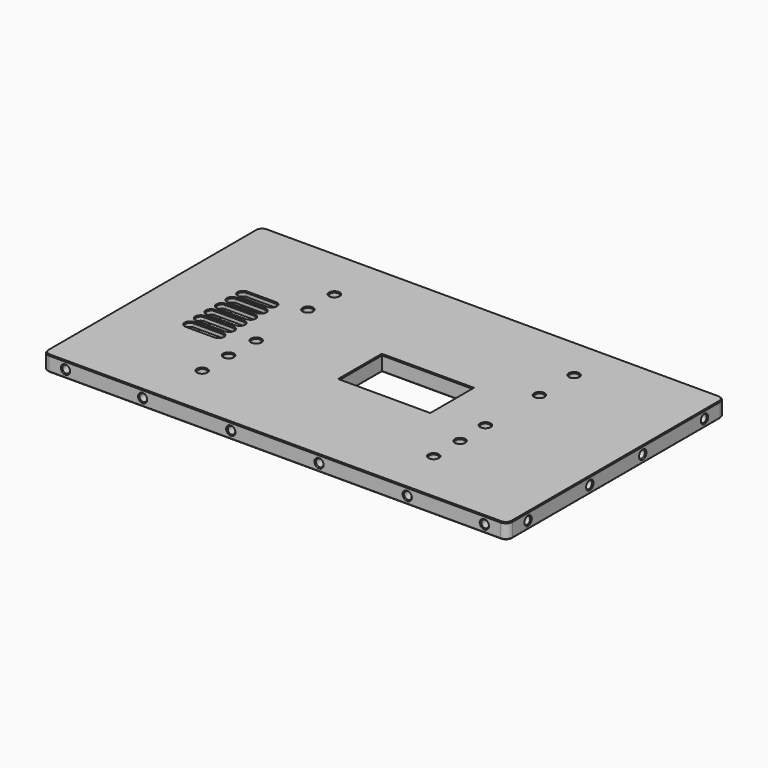
from build123d import *

# Parameters (mm, degrees)
SKETCH030_W        = 210.7
SKETCH030_H        = 123.7
SKETCH030_W_2      = 18
SKETCH030_H_2      = 35
PAD005_DEPTH       = 7
FILLET002_R        = 3
SKETCH031_W        = 50
SKETCH031_H        = 12
POCKET007_DEPTH    = 4
SKETCH032_W        = 41
SKETCH032_H        = 24
POCKET008_DEPTH    = 7.001
SKETCH033_R        = 1.7
POCKET009_DEPTH    = 10
SKETCH034_R        = 1.7
POCKET010_DEPTH    = 10
SKETCH036_R        = 1.7
POCKET011_DEPTH    = 10
SKETCH037_R        = 1.7
POCKET012_DEPTH    = 10
SKETCH038_R        = 2
POCKET013_DEPTH    = 7.001
SKETCH039_W        = 18
SKETCH039_H        = 35
PAD006_DEPTH       = 2
CHAMFER011012_SIZE = 0.4
SKETCH049_R        = 2
POCKET021_DEPTH    = 7.001
CHAMFER011021_SIZE = 0.4
SKETCH050_W        = 0.5
SKETCH050_H        = 90
SKETCH050_W_2      = 68.5
SKETCH050_H_2      = 0.5
POCKET022_DEPTH    = 5


with BuildPart() as part:
    # Sketch030 → Pad005 (new body)
    with BuildSketch(Plane.XY):
        Rectangle(SKETCH030_W, SKETCH030_H)
        with Locations((-71.5, 2.5)):
            Rectangle(SKETCH030_W_2, SKETCH030_H_2, mode=Mode.SUBTRACT)
    extrude(amount=PAD005_DEPTH)

    # Fillet002
    fillet002_edges = [part.edges().sort_by_distance(p)[0] for p in [
        (-105.35, 61.85, 3.5),
        (-105.35, -61.85, 3.5),
        (105.35, -61.85, 3.5),
        (105.35, 61.85, 3.5),
    ]]
    fillet(fillet002_edges, radius=FILLET002_R)

    # Sketch031 → Pocket007 (cut)
    with BuildSketch(Plane.XY):
        with Locations((-42.5, 52.5)):
            Rectangle(SKETCH031_W, SKETCH031_H)
    extrude(amount=POCKET007_DEPTH, mode=Mode.SUBTRACT)

    # Sketch032 → Pocket008 (cut, through all)
    with BuildSketch(Plane.XY):
        with Locations((10, 0)):
            Rectangle(SKETCH032_W, SKETCH032_H)
    extrude(amount=POCKET008_DEPTH, mode=Mode.SUBTRACT)

    # Sketch033 (on DatumPlane) → Pocket009 (cut)
    with BuildSketch(Plane.XZ.offset(-62)):
        with Locations((-95, 3.5)):
            Circle(SKETCH033_R)
        with Locations((-60, 3.5)):
            Circle(SKETCH033_R)
        with Locations((-20, 3.5)):
            Circle(SKETCH033_R)
        with Locations((20, 3.5)):
            Circle(SKETCH033_R)
        with Locations((60, 3.5)):
            Circle(SKETCH033_R)
        with Locations((95, 3.5)):
            Circle(SKETCH033_R)
    extrude(amount=POCKET009_DEPTH, mode=Mode.SUBTRACT)

    # Sketch034 (on DatumPlane) → Pocket010 (cut)
    with BuildSketch(Plane.YZ.offset(105.5)):
        with Locations((-50, 3.5)):
            Circle(SKETCH034_R)
        with Locations((-15, 3.5)):
            Circle(SKETCH034_R)
        with Locations((15, 3.5)):
            Circle(SKETCH034_R)
        with Locations((50, 3.5)):
            Circle(SKETCH034_R)
    extrude(amount=-POCKET010_DEPTH, mode=Mode.SUBTRACT)

    # Sketch036 (on DatumPlane) → Pocket011 (cut)
    with BuildSketch(Plane.XZ.offset(62)):
        with Locations((-95, 3.5)):
            Circle(SKETCH036_R)
        with Locations((-60, 3.5)):
            Circle(SKETCH036_R)
        with Locations((-20, 3.5)):
            Circle(SKETCH036_R)
        with Locations((20, 3.5)):
            Circle(SKETCH036_R)
        with Locations((60, 3.5)):
            Circle(SKETCH036_R)
        with Locations((95, 3.5)):
            Circle(SKETCH036_R)
    extrude(amount=-POCKET011_DEPTH, mode=Mode.SUBTRACT)

    # Sketch037 (on DatumPlane) → Pocket012 (cut)
    with BuildSketch(Plane.YZ.offset(-105.5)):
        with Locations((-50, 3.5)):
            Circle(SKETCH037_R)
        with Locations((-15, 3.5)):
            Circle(SKETCH037_R)
        with Locations((15, 3.5)):
            Circle(SKETCH037_R)
        with Locations((50, 3.5)):
            Circle(SKETCH037_R)
    extrude(amount=POCKET012_DEPTH, mode=Mode.SUBTRACT)

    # Sketch038 → Pocket013 (cut, through all)
    with BuildSketch(Plane.XY):
        with Locations((-52.5, 22.5)):
            Circle(SKETCH038_R)
        with Locations((-52.5, -22.5)):
            Circle(SKETCH038_R)
        with Locations((52.5, 22.5)):
            Circle(SKETCH038_R)
        with Locations((52.5, -22.5)):
            Circle(SKETCH038_R)
        with Locations((-52.5, 37.5)):
            Circle(SKETCH038_R)
        with Locations((-52.5, -37.5)):
            Circle(SKETCH038_R)
        with Locations((52.5, 42.13591)):
            Circle(SKETCH038_R)
        with Locations((52.5, -37.5)):
            Circle(SKETCH038_R)
    extrude(amount=POCKET013_DEPTH, mode=Mode.SUBTRACT)

    # Sketch039 (on Face5 of Pocket013) → Pad006 (join)
    with BuildSketch(Plane.XY.offset(7)):
        with Locations((-71.5, 2.5)):
            Rectangle(SKETCH039_W, SKETCH039_H)
        with BuildLine():
            ThreePointArc((-78, 19.5), (-80, 17.5), (-78, 15.5))
            Line((-78, 15.5), (-65, 15.5))
            ThreePointArc((-65, 15.5), (-63, 17.5), (-65, 19.5))
            Line((-78, 19.5), (-65, 19.5))
        make_face(mode=Mode.SUBTRACT)
        with BuildLine():
            ThreePointArc((-78, 13.5), (-80, 11.5), (-78, 9.5))
            Line((-78, 9.5), (-65, 9.5))
            ThreePointArc((-65, 9.5), (-63, 11.5), (-65, 13.5))
            Line((-78, 13.5), (-65, 13.5))
        make_face(mode=Mode.SUBTRACT)
        with BuildLine():
            ThreePointArc((-78, 7.5), (-80, 5.5), (-78, 3.5))
            Line((-78, 3.5), (-65, 3.5))
            ThreePointArc((-65, 3.5), (-63, 5.5), (-65, 7.5))
            Line((-78, 7.5), (-65, 7.5))
        make_face(mode=Mode.SUBTRACT)
        with BuildLine():
            ThreePointArc((-78, 1.5), (-80, -0.5), (-78, -2.5))
            Line((-78, -2.5), (-65, -2.5))
            ThreePointArc((-65, -2.5), (-63, -0.5), (-65, 1.5))
            Line((-78, 1.5), (-65, 1.5))
        make_face(mode=Mode.SUBTRACT)
        with BuildLine():
            ThreePointArc((-78, -4.5), (-80, -6.5), (-78, -8.5))
            Line((-78, -8.5), (-65, -8.5))
            ThreePointArc((-65, -8.5), (-63, -6.5), (-65, -4.5))
            Line((-78, -4.5), (-65, -4.5))
        make_face(mode=Mode.SUBTRACT)
        with BuildLine():
            ThreePointArc((-78, -10.5), (-80, -12.5), (-78, -14.5))
            Line((-78, -14.5), (-65, -14.5))
            ThreePointArc((-65, -14.5), (-63, -12.5), (-65, -10.5))
            Line((-78, -10.5), (-65, -10.5))
        make_face(mode=Mode.SUBTRACT)
    extrude(amount=-PAD006_DEPTH)

    # Chamfer011012
    chamfer011012_edges = [part.edges().sort_by_distance(p)[0] for p in [
        (0, 61.85, 0),
        (-104.47132, 60.97132, 0),
        (104.47132, 60.97132, 0),
        (-105.35, 0, 0),
        (105.35, 0, 0),
        (-104.47132, -60.97132, 0),
        (104.47132, -60.97132, 0),
        (0, -61.85, 0),
        (50.5, -37.5, 0),
        (50.5, -22.5, 0),
        (10, 12, 0),
        (-10.5, 0, 0),
        (30.5, 0, 0),
        (10, -12, 0),
        (-54.5, -37.5, 0),
        (-54.5, -22.5, 0),
        (-80.5, 2.5, 0),
        (-71.5, -15, 0),
        (-71.5, 20, 0),
        (-62.5, 2.5, 0),
        (50.5, 22.5, 0),
        (50.5, 42.13591, 0),
        (-54.5, 22.5, 0),
        (-42.5, 58.5, 0),
        (-67.5, 52.5, 0),
        (-17.5, 52.5, 0),
        (-42.5, 46.5, 0),
        (-54.5, 37.5, 0),
        (0, 61.85, 7),
        (-104.47132, 60.97132, 7),
        (-105.35, 0, 7),
        (-104.47132, -60.97132, 7),
        (0, -61.85, 7),
        (104.47132, -60.97132, 7),
        (105.35, 0, 7),
        (104.47132, 60.97132, 7),
        (-10.5, 0, 7),
        (10, -12, 7),
        (30.5, 0, 7),
        (10, 12, 7),
        (-71.5, -8.5, 7),
        (-63, -6.5, 7),
        (-71.5, -4.5, 7),
        (-80, -6.5, 7),
        (-71.5, -14.5, 7),
        (-63, -12.5, 7),
        (-71.5, -10.5, 7),
        (-80, -12.5, 7),
        (-71.5, -2.5, 7),
        (-63, -0.5, 7),
        (-71.5, 1.5, 7),
        (-80, -0.5, 7),
        (-71.5, 3.5, 7),
        (-63, 5.5, 7),
        (-71.5, 7.5, 7),
        (-80, 5.5, 7),
        (-71.5, 9.5, 7),
        (-63, 11.5, 7),
        (-71.5, 13.5, 7),
        (-80, 11.5, 7),
        (-71.5, 15.5, 7),
        (-63, 17.5, 7),
        (-71.5, 19.5, 7),
        (-80, 17.5, 7),
        (50.5, -37.5, 7),
        (50.5, -22.5, 7),
        (-54.5, -37.5, 7),
        (-54.5, -22.5, 7),
        (50.5, 22.5, 7),
        (50.5, 42.13591, 7),
        (-54.5, 22.5, 7),
        (-54.5, 37.5, 7),
        (-96.7, 61.85, 3.5),
        (-61.7, 61.85, 3.5),
        (-21.7, 61.85, 3.5),
        (18.3, 61.85, 3.5),
        (58.3, 61.85, 3.5),
        (93.3, 61.85, 3.5),
        (105.35, 48.3, 3.5),
        (105.35, 13.3, 3.5),
        (105.35, -16.7, 3.5),
        (105.35, -51.7, 3.5),
        (93.3, -61.85, 3.5),
        (58.3, -61.85, 3.5),
        (18.3, -61.85, 3.5),
        (-21.7, -61.85, 3.5),
        (-61.7, -61.85, 3.5),
        (-96.7, -61.85, 3.5),
        (-105.35, 48.3, 3.5),
        (-105.35, 13.3, 3.5),
        (-105.35, -16.7, 3.5),
        (-105.35, -51.7, 3.5),
    ]]
    chamfer(chamfer011012_edges, length=CHAMFER011012_SIZE)

    # Sketch049 → Pocket021 (cut, through all)
    with BuildSketch(Plane.XY):
        with Locations((-52, -7.5)):
            Circle(SKETCH049_R)
        with Locations((52, -7.5)):
            Circle(SKETCH049_R)
    extrude(amount=POCKET021_DEPTH, mode=Mode.SUBTRACT)

    # Chamfer011021
    chamfer011021_edges = [part.edges().sort_by_distance(p)[0] for p in [
        (-54, -7.5, 7),
        (-54, -7.5, 0),
        (50, -7.5, 0),
        (50, -7.5, 7),
    ]]
    chamfer(chamfer011021_edges, length=CHAMFER011021_SIZE)

    # Sketch050 (on DatumPlane) → Pocket022 (cut)
    with BuildSketch(Plane.XY.offset(1)):
        with Locations((-59.75, -5)):
            Rectangle(SKETCH050_W, SKETCH050_H)
        with Locations((-44.25, -5)):
            Rectangle(SKETCH050_W, SKETCH050_H)
        with Locations((44.25, -5)):
            Rectangle(SKETCH050_W, SKETCH050_H)
        with Locations((60.25, -5)):
            Rectangle(SKETCH050_W, SKETCH050_H)
        with Locations((0.25, 19.25)):
            Rectangle(SKETCH050_W_2, SKETCH050_H_2)
        with Locations((0.25, -20.75)):
            Rectangle(SKETCH050_W_2, SKETCH050_H_2)
        with Locations((0.25, 39.75)):
            Rectangle(SKETCH050_W_2, SKETCH050_H_2)
        with Locations((0.25, -50.25)):
            Rectangle(SKETCH050_W_2, SKETCH050_H_2)
    extrude(amount=POCKET022_DEPTH, mode=Mode.SUBTRACT)


with BuildPart() as part_1:
    # Body006008 placement: moved
    add(part.part.moved(Location((0, 0, 10))))


solid = part_1.part
